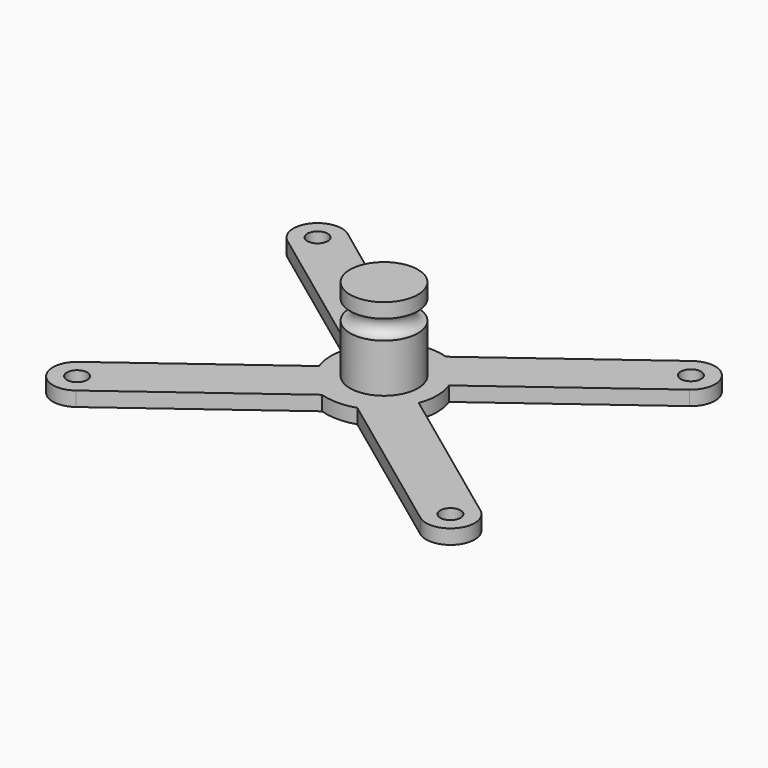
from build123d import *

# Parameters (mm, degrees)
TORUS_R           = 2
CYLINDER001_R     = 2.1
CYLINDER001_DEPTH = 10
ARRAY_X_COUNT     = 2
ARRAY_X_PITCH     = 77
ARRAY_Y_COUNT     = 2
ARRAY_Y_PITCH     = 62
PAD002_DEPTH      = 3
CYLINDER_R        = 7
CYLINDER_DEPTH    = 20


with BuildPart() as torus:
    # Torus → Torus (revolve)
    with BuildSketch(Plane(origin=(0, 0, 15), x_dir=(1, 0, 0), z_dir=(0, -1, 0))):
        with Locations((7, 0)):
            Circle(TORUS_R)
    revolve(axis=Axis((0, 0, 15), (0, 0, 1)))


with BuildPart() as extract_fusion:
    # Cylinder001 → Cylinder001 (new body)
    with BuildSketch(Plane.XY):
        Circle(CYLINDER001_R)
    extrude(amount=CYLINDER001_DEPTH)

    # Array X: extract fusion ×2


with BuildPart() as extract_fusion_1:
    add(extract_fusion.part)
    with Locations(*[(i * ARRAY_X_PITCH, 0, 0) for i in range(1, ARRAY_X_COUNT)]):
        add(extract_fusion.part)

    # Array Y: extract fusion ×2


with BuildPart() as extract_fusion_2:
    add(extract_fusion_1.part)
    with Locations(*[(0, i * ARRAY_Y_PITCH, 0) for i in range(1, ARRAY_Y_COUNT)]):
        add(extract_fusion_1.part)


with BuildPart() as extract_fusion_3:
    # Array placement: moved
    add(extract_fusion_2.part.moved(Location((-38.5, -31, 0))))

    # Fusion: union Torus
    add(torus.part)


with BuildPart() as base_body:
    # Sketch002 → Pad002 (new body)
    with BuildSketch(Plane.XY):
        with BuildLine():
            Line((-10.285127, -3.90079), (-41.474221, -26.980795))
            ThreePointArc((-41.474221, -26.980795), (-42.519205, -33.974221), (-35.525779, -35.019205))
            Line((-35.525779, -35.019205), (-3.650353, -11.431313))
            ThreePointArc((-3.650353, -11.431313), (0, -12), (3.650353, -11.431313))
            Line((3.650353, -11.431313), (35.525779, -35.019205))
            ThreePointArc((35.525779, -35.019205), (42.519205, -33.974221), (41.474221, -26.980795))
            Line((10.285127, -3.90079), (41.474221, -26.980795))
            ThreePointArc((10.285127, -3.90079), (11, 0), (10.285127, 3.90079))
            Line((10.285127, 3.90079), (41.474221, 26.980795))
            ThreePointArc((41.474221, 26.980795), (42.519205, 33.974221), (35.525779, 35.019205))
            Line((3.650353, 11.431313), (35.525779, 35.019205))
            ThreePointArc((3.650353, 11.431313), (0, 12), (-3.650353, 11.431313))
            Line((-3.650353, 11.431313), (-35.525779, 35.019205))
            ThreePointArc((-35.525779, 35.019205), (-42.519205, 33.974221), (-41.474221, 26.980795))
            Line((-10.285127, 3.90079), (-41.474221, 26.980795))
            ThreePointArc((-10.285127, 3.90079), (-11, 0), (-10.285127, -3.90079))
        make_face()
    extrude(amount=PAD002_DEPTH)


with BuildPart() as base_cut:
    # Cylinder → Cylinder (new body)
    with BuildSketch(Plane.XY):
        Circle(CYLINDER_R)
    extrude(amount=CYLINDER_DEPTH)

    # Fusion001: union base body
    add(base_body.part)

    # Cut: cut extract fusion
    add(extract_fusion_3.part, mode=Mode.SUBTRACT)


solid = base_cut.part
